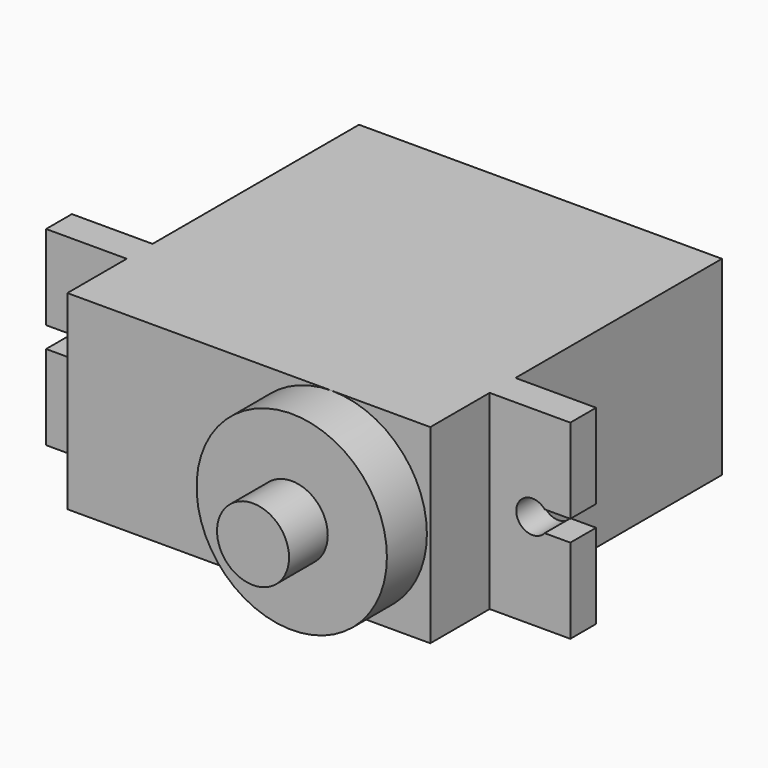
from build123d import *

# Parameters (mm, degrees)
F0_W          = 22.5
F0_H          = 11.8
F1_DEPTH      = 22.6
F2_W          = 2
F2_H          = 11.8
F3_DEPTH      = 5
F3_DEPTH_BACK = 27.5
F4_R          = 5.9
F5_DEPTH      = 3.1
F6_R          = 2.2332329477
F7_DEPTH      = 3
F9_D          = 2
F9_DEPTH      = 12
F9_TIP        = 0.600860619
F10_W         = 7.0652620957
F10_H         = 1.3
F10_W_2       = 9.383104834
F11_DEPTH     = 5


with BuildPart() as f1:
    # F0 (on Front) → F1 (new body)
    with BuildSketch(Plane.XZ):
        Rectangle(F0_W, F0_H)
    extrude(amount=F1_DEPTH)

    # F2 (on face) → F3 (join, two sides)
    with BuildSketch(Plane(origin=(-11.25, 0, 0), x_dir=(0, -1, 0), z_dir=(-1, 0, 0))) as f3_sk:
        with Locations((17, 0)):
            Rectangle(F2_W, F2_H)
    extrude(amount=F3_DEPTH)
    extrude(f3_sk.sketch, amount=-F3_DEPTH_BACK)

    # F4 (on face) → F5 (join)
    with BuildSketch(Plane.XZ.offset(22.6)):
        with Locations((5.1404135302, 0)):
            Circle(F4_R)
    extrude(amount=F5_DEPTH)

    # F6 (on face) → F7 (join)
    with BuildSketch(Plane.XZ.offset(25.7)):
        with Locations((5.1404135302, 0)):
            Circle(F6_R)
    extrude(amount=F7_DEPTH)

    # F9
    with Locations(Plane.XZ.offset(18)):
        with Locations((-13.9, 0), (13.9, 0)):
            Hole(F9_D / 2, depth=F9_DEPTH)
            with Locations((0, 0, -(F9_DEPTH + F9_TIP / 2))):  # 118° drill point
                Cone(0, F9_D / 2, F9_TIP, mode=Mode.SUBTRACT)

    # F10 (on face) → F11 (cut)
    with BuildSketch(Plane.XZ.offset(18)):
        with Locations((-19.7826310478, 0)):
            Rectangle(F10_W, F10_H)
        with BuildLine():
            ThreePointArc((-14.6599342077, -0.65), (-14.9, 0), (-14.6599342077, 0.65))
            Line((-14.6599342077, 0.65), (-16.25, 0.65))
            Line((-16.25, 0.65), (-16.25, -0.65))
            Line((-16.25, -0.65), (-14.6599342077, -0.65))
        make_face()
        with BuildLine():
            Line((-13.9321572616, -0.65), (-13.9321572616, 0.65))
            Line((-13.9321572616, 0.65), (-14.6599342077, 0.65))
            ThreePointArc((-14.6599342077, 0.65), (-14.9, 0), (-14.6599342077, -0.65))
            Line((-14.6599342077, -0.65), (-13.9321572616, -0.65))
        make_face()
        with Locations((18.763743341, 0)):
            Rectangle(F10_W_2, F10_H)
    extrude(amount=-F11_DEPTH, mode=Mode.SUBTRACT)


solid = f1.part
